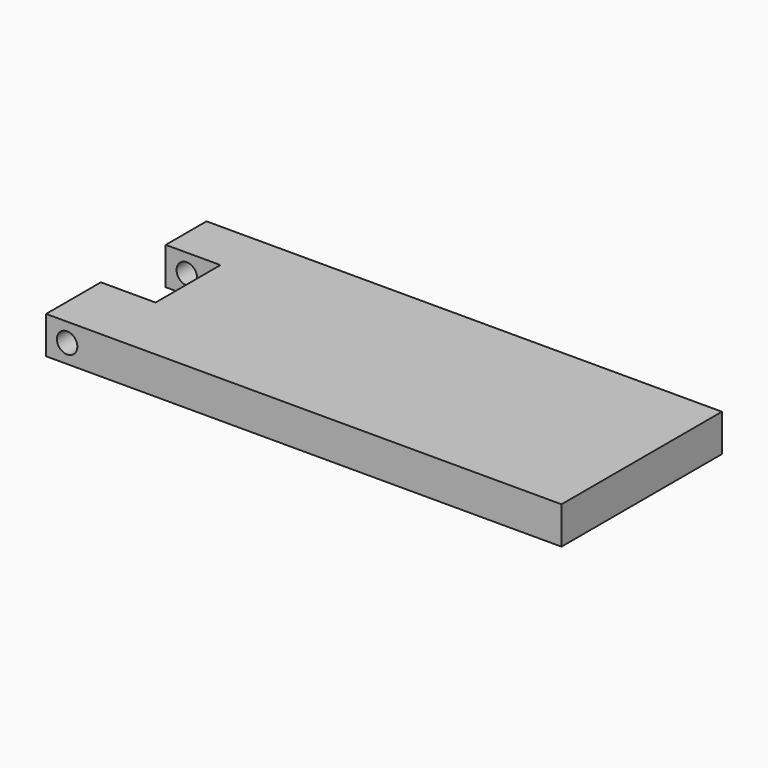
from build123d import *

# Parameters (mm, degrees)
F0_W     = 87.707184
F0_H     = 34.12497
F1_DEPTH = 6.35
F2_W     = 9.312924
F2_H     = 13.797991
F3_DEPTH = 6.35
F4_R     = 1.73945
F5_DEPTH = 34.12497


with BuildPart() as f1:
    # F0 (on Top) → F1 (new body)
    with BuildSketch(Plane.XY):
        with Locations((43.853592, 17.062485)):
            Rectangle(F0_W, F0_H)
    extrude(amount=F1_DEPTH)

    # F2 (on face) → F3 (cut, through all)
    with BuildSketch(Plane.XY.offset(6.35)):
        with Locations((4.656462, 18.549588)):
            Rectangle(F2_W, F2_H)
    extrude(amount=-F3_DEPTH, mode=Mode.SUBTRACT)

    # F4 (on face) → F5 (cut, through all)
    with BuildSketch(Plane(origin=(0, 34.12497, 0), x_dir=(-1, 0, 0), z_dir=(0, 1, 0))):
        with Locations((-3.584127, 3.175)):
            Circle(F4_R)
    extrude(amount=-F5_DEPTH, mode=Mode.SUBTRACT)


solid = f1.part
